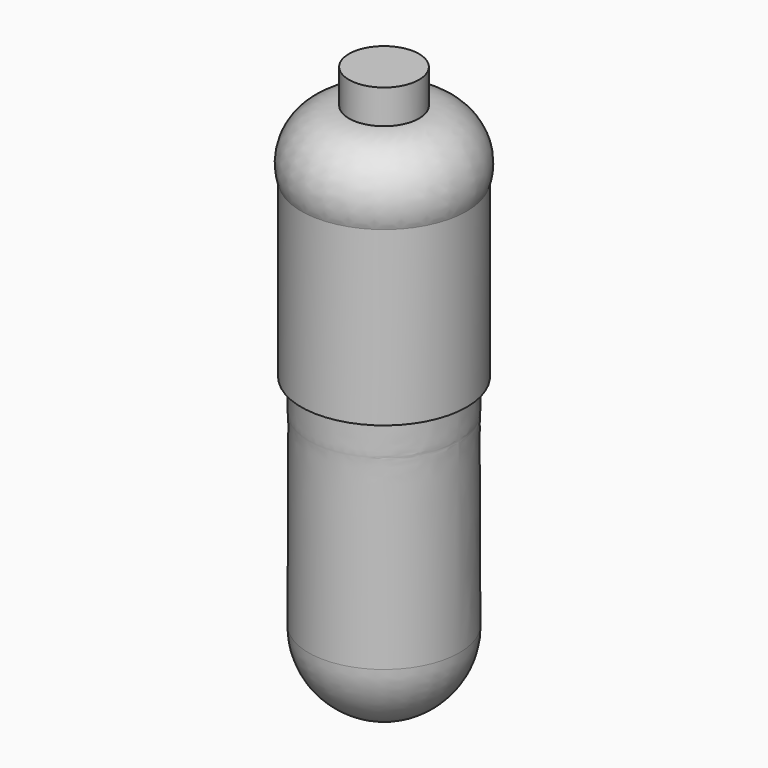
from build123d import *


with BuildPart() as f1:
    # F0 (on Front) → F1 (revolve)
    with BuildSketch(Plane.XZ):
        with BuildLine():
            Line((0, 56), (0, 0))
            Line((0, 0), (15.5, 0))
            Line((15.5, 0), (17, 0))
            Line((17, 0), (17, 35.400681))
            ThreePointArc((17, 35.400681), (15.581251, 44.709015), (7.2, 49))
            Line((7.2, 49), (7.2, 56))
            Line((7.2, 56), (0, 56))
        make_face()
    revolve(axis=Axis((0, 0, 28), (0, 0, 1)))


with BuildPart() as f2:
    # F0 (on Front) → F2 (revolve)
    with BuildSketch(Plane.XZ):
        with BuildLine():
            Line((15.5, 0), (0, 0))
            Line((0, 0), (0, -60.489541))
            ThreePointArc((0, -60.489541), (10.990402, -55.919365), (15.499763, -44.903871))
            add(Edge.make_bspline(
                [(15.5, 0), (15.5, -17.472569), (15.182326, 12.528497), (15.499763, -44.903871)],
                knots=[0, 0, 0, 0, 44.903871, 44.903871, 44.903871, 44.903871], degree=3))
        make_face()
    revolve(axis=Axis((0, 0, -30.244771), (0, 0, -1)))


solid = Compound([f1.part, f2.part])
